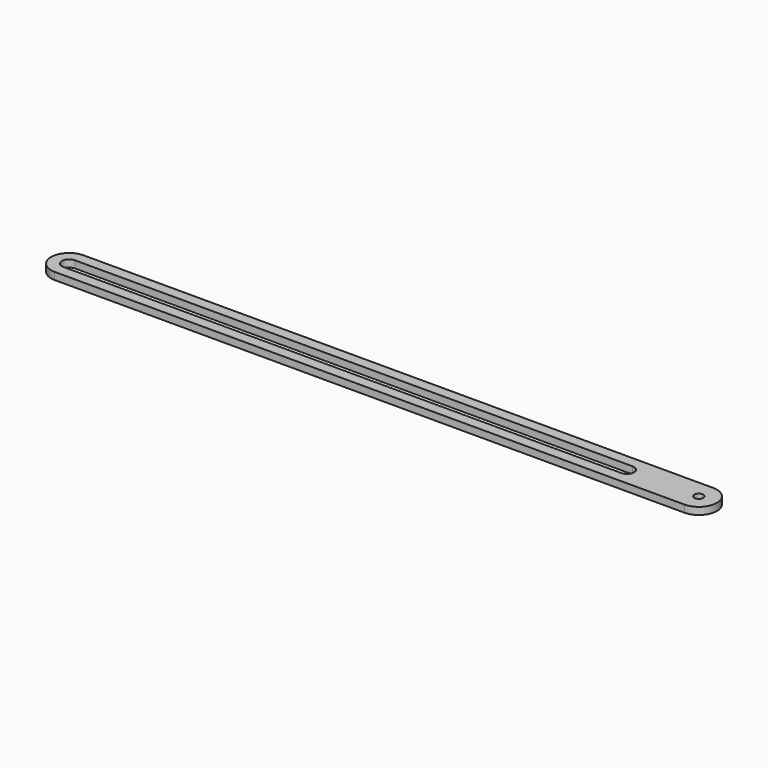
from build123d import *

# Parameters (mm, degrees)
F0_R     = 1.5875
F1_DEPTH = 2.54
F2_R     = 1.5875
F3_DEPTH = 3.175


with BuildPart() as f1:
    # F0 (on Top) → F1 (new body)
    with BuildSketch(Plane.XY):
        with BuildLine():
            ThreePointArc((0, 12.7), (-6.35, 6.35), (0, 0))
            Line((0, 0), (222.25, 0))
            ThreePointArc((222.25, 0), (228.6, 6.35), (222.25, 12.7))
            Line((222.25, 12.7), (0, 12.7))
        make_face()
        with BuildLine():
            Line((196.85, 3.81), (0, 3.81))
            ThreePointArc((0, 3.81), (-2.54, 6.35), (0, 8.89))
            Line((0, 8.89), (196.85, 8.89))
            ThreePointArc((196.85, 8.89), (199.39, 6.35), (196.85, 3.81))
        make_face(mode=Mode.SUBTRACT)
        with Locations((222.25, 6.35)):
            Circle(F0_R, mode=Mode.SUBTRACT)
    extrude(amount=F1_DEPTH)

    # F2 (on face) → F3 (join)
    with BuildSketch(Plane(origin=(0, 0, 0), x_dir=(1, 0, 0), z_dir=(0, 0, -1))):
        with Locations((209.55, -6.35)):
            Circle(F2_R)
        with Locations((-4.445, -6.35)):
            Circle(F2_R)
    extrude(amount=F3_DEPTH)


solid = f1.part
